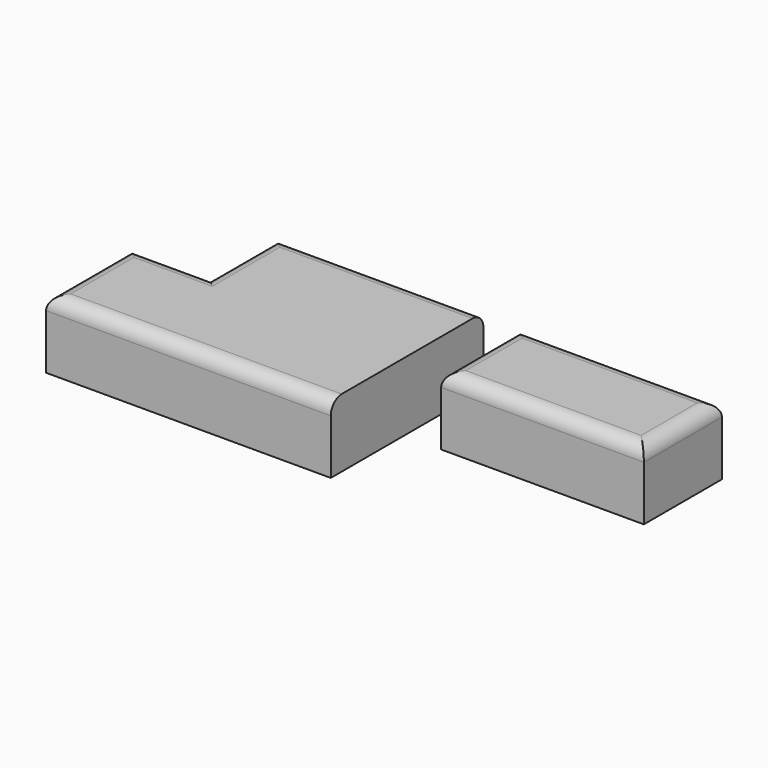
from build123d import *

# Parameters (mm, degrees)
F0_W     = 35.5749689043
F0_H     = 39.502074942
F0_W_2   = 29.1067957878
F1_DEPTH = 25.4
F0_W_3   = 75.3080425784
F0_H_2   = 36.2679893151
F2_R     = 5.08
F2_2_R   = 5.08


with BuildPart() as f1:
    # F0 (on Top) → F1 (new body)
    with BuildSketch(Plane.XY):
        Polygon((-4.1741500609, 52.5860078633), (-80.8682367206, 52.5860078633), (-80.8682367206, 21.1691502482), (-45.2932678163, 21.1691502482), (-45.2932678163, -18.3329246938), (-4.1741500609, -18.3329246938), align=None)
        with Locations((-63.0807522684, 1.4181127772)):
            Rectangle(F0_W, F0_H)
        with Locations((-95.4216346145, 1.4181127772)):
            Rectangle(F0_W_2, F0_H)
    extrude(amount=F1_DEPTH)

    # F2
    f2_edges = [f1.edges().sort_by_distance(p)[0] for p in [
        (-80.868237, 36.877579, 25.4),
        (-42.521193, 52.586008, 25.4),
        (-95.421635, 21.16915, 25.4),
        (-109.975033, 1.418113, 25.4),
        (-57.074591, -18.332925, 25.4),
    ]]
    fillet(f2_edges, radius=F2_R)


with BuildPart() as f1b:
    # F0 (on Top) → F1, piece 2 (new body)
    with BuildSketch(Plane.XY):
        with Locations((47.3402501084, 33.7589937262)):
            Rectangle(F0_W_3, F0_H_2)
    extrude(amount=F1_DEPTH)

    # F2#2
    f2_2_edges = [f1b.edges().sort_by_distance(p)[0] for p in [
        (47.34025, 51.892988, 25.4),
        (9.686229, 33.758994, 25.4),
        (47.34025, 15.624999, 25.4),
        (84.994271, 33.758994, 25.4),
    ]]
    fillet(f2_2_edges, radius=F2_2_R)


solid = Compound([f1.part, f1b.part])
